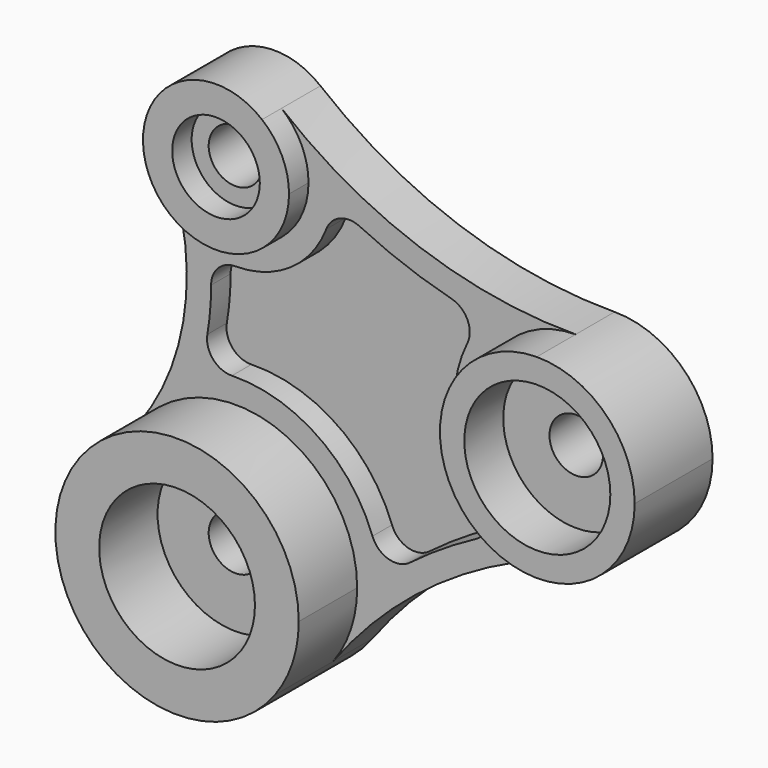
from build123d import *

# Parameters (mm, degrees)
F1_DEPTH  = 10
F2_DEPTH  = 15
F3_DEPTH  = 25
F4_DEPTH  = 20
F5_R      = 16
F5_R_2    = 9
F5_R_3    = 15
F6_DEPTH  = 15
F7_R      = 5.5
F8_DEPTH  = 10.001
F10_DEPTH = 5
F11_R     = 5


with BuildPart() as f1:
    # F0 (on Front) → F1 (new body)
    with BuildSketch(Plane.XZ):
        with BuildLine():
            ThreePointArc((-20, 15), (7.905694, 23.717082), (25, 0))
            ThreePointArc((25, 0), (23.736535, -7.847096), (20.073847, -14.901029))
            ThreePointArc((20.073847, -14.901029), (44.154845, 7.848858), (74.583385, 20.946787))
            ThreePointArc((74.583385, 20.946787), (50.140462, 38.048353), (69.881043, 60.414165))
            ThreePointArc((69.881043, 60.414165), (37.823204, 65.784342), (9.452181, 81.647157))
            ThreePointArc((9.452181, 81.647157), (13.542207, 76.450476), (15, 70))
            ThreePointArc((15, 70), (2.941742, 55.29129), (-13.846154, 64.230769))
            ThreePointArc((-13.846154, 64.230769), (-10.386106, 38.798263), (-20, 15))
        make_face()
    extrude(amount=F1_DEPTH)

    # F0 (on Front) → F2 (join)
    with BuildSketch(Plane.XZ):
        with BuildLine():
            ThreePointArc((9.452181, 81.647157), (-8.981057, 82.014184), (-13.846154, 64.230769))
            ThreePointArc((-13.846154, 64.230769), (2.941742, 55.29129), (15, 70))
            ThreePointArc((15, 70), (13.542207, 76.450476), (9.452181, 81.647157))
        make_face()
    extrude(amount=F2_DEPTH)

    # F0 (on Front) → F3 (join)
    with BuildSketch(Plane.XZ):
        with BuildLine():
            ThreePointArc((20.073847, -14.901029), (23.736535, -7.847096), (25, 0))
            ThreePointArc((25, 0), (7.905694, 23.717082), (-20, 15))
            ThreePointArc((-20, 15), (-14.95056, -20.036985), (20.073847, -14.901029))
        make_face()
    extrude(amount=F3_DEPTH)

    # F0 (on Front) → F4 (join)
    with BuildSketch(Plane.XZ):
        with BuildLine():
            ThreePointArc((69.881043, 60.414165), (50.140462, 38.048353), (74.583385, 20.946787))
            ThreePointArc((74.583385, 20.946787), (85.67909, 27.998153), (90, 40.414519))
            ThreePointArc((90, 40.414519), (84.100015, 54.59865), (69.881043, 60.414165))
        make_face()
    extrude(amount=F4_DEPTH)

    # F5 (on face) → F6 (cut)
    with BuildSketch(Plane.XZ.offset(25)):
        Circle(F5_R)
        with Locations((0, 70)):
            Circle(F5_R_2)
        with Locations((70, 40.414519)):
            Circle(F5_R_3)
    extrude(amount=-F6_DEPTH, mode=Mode.SUBTRACT)

    # F7 (on face) → F8 (cut, through all)
    with BuildSketch(Plane.XZ.offset(10)):
        Circle(F7_R)
        with Locations((0, 70)):
            Circle(F7_R)
        with Locations((70, 40.414519)):
            Circle(F7_R)
    extrude(amount=-F8_DEPTH, mode=Mode.SUBTRACT)

    # F9 (on face) → F10 (cut)
    with BuildSketch(Plane.XZ.offset(10)):
        with BuildLine():
            ThreePointArc((51.331935, 57.042909), (35.156253, 61.427848), (19.940051, 68.452632))
            ThreePointArc((19.940051, 68.452632), (11.500487, 53.637274), (-5.297662, 50.714389))
            ThreePointArc((-5.297662, 50.714389), (-5.246639, 39.797168), (-7.352958, 29.084945))
            ThreePointArc((-7.352958, 29.084945), (17.164465, 24.604494), (29.835004, 3.142063))
            ThreePointArc((29.835004, 3.142063), (42.1494, 12.509642), (55.761443, 19.865468))
            ThreePointArc((55.761443, 19.865468), (45.175577, 37.456812), (51.331935, 57.042909))
        make_face()
    extrude(amount=-F10_DEPTH, mode=Mode.SUBTRACT)

    # F11
    f11_edges = [f1.edges().sort_by_distance(p)[0] for p in [
        (19.940051, -7.5, 68.452632),
        (-5.297662, -7.5, 50.714389),
        (51.331935, -7.5, 57.042909),
        (55.761443, -7.5, 19.865468),
        (-7.352958, -7.5, 29.084945),
        (29.835004, -7.5, 3.142063),
    ]]
    fillet(f11_edges, radius=F11_R)


solid = f1.part
